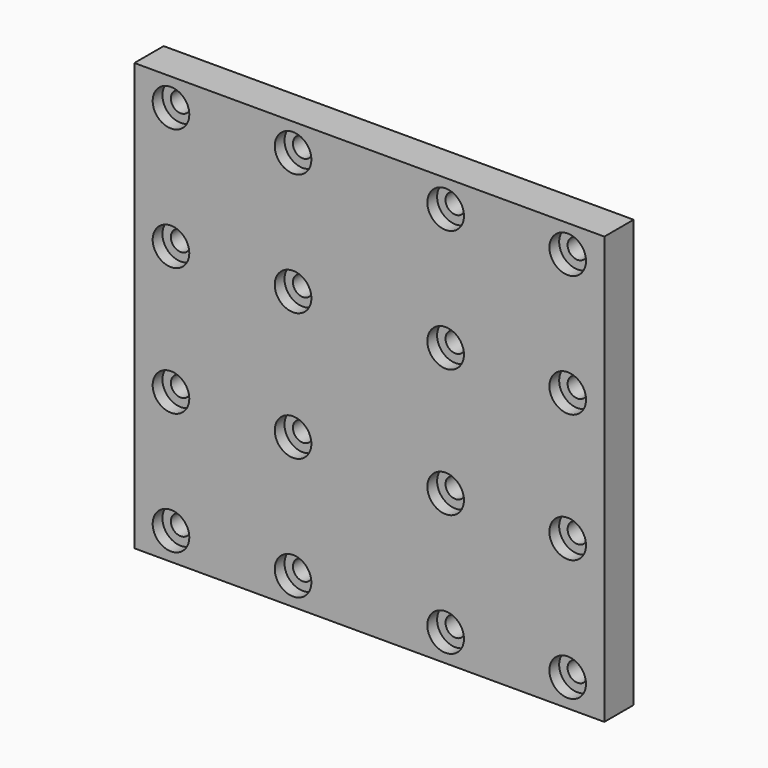
from build123d import *

# Parameters (mm, degrees)
F0_W     = 154
F0_H     = 140
F0_R     = 3.24
F1_DEPTH = 12
F2_R     = 6
F2_R_2   = 3.24
F3_DEPTH = 4


with BuildPart() as f1:
    # F0 (on Front) → F1 (new body)
    with BuildSketch(Plane.XZ):
        Rectangle(F0_W, F0_H)
        with Locations((-65, -61)):
            Circle(F0_R, mode=Mode.SUBTRACT)
        with Locations((-25, -61)):
            Circle(F0_R, mode=Mode.SUBTRACT)
        with Locations((-65, -21)):
            Circle(F0_R, mode=Mode.SUBTRACT)
        with Locations((-25, -21)):
            Circle(F0_R, mode=Mode.SUBTRACT)
        with Locations((25, -61)):
            Circle(F0_R, mode=Mode.SUBTRACT)
        with Locations((65, -61)):
            Circle(F0_R, mode=Mode.SUBTRACT)
        with Locations((25, -21)):
            Circle(F0_R, mode=Mode.SUBTRACT)
        with Locations((65, -21)):
            Circle(F0_R, mode=Mode.SUBTRACT)
        with Locations((-65, 21)):
            Circle(F0_R, mode=Mode.SUBTRACT)
        with Locations((-25, 21)):
            Circle(F0_R, mode=Mode.SUBTRACT)
        with Locations((-65, 61)):
            Circle(F0_R, mode=Mode.SUBTRACT)
        with Locations((-25, 61)):
            Circle(F0_R, mode=Mode.SUBTRACT)
        with Locations((25, 21)):
            Circle(F0_R, mode=Mode.SUBTRACT)
        with Locations((65, 21)):
            Circle(F0_R, mode=Mode.SUBTRACT)
        with Locations((25, 61)):
            Circle(F0_R, mode=Mode.SUBTRACT)
        with Locations((65, 61)):
            Circle(F0_R, mode=Mode.SUBTRACT)
    extrude(amount=F1_DEPTH)

    # F2 (on face) → F3 (cut)
    with BuildSketch(Plane.XZ.offset(12)):
        with Locations((-65, 61)):
            Circle(F2_R)
        with Locations((-65, 61)):
            Circle(F2_R_2, mode=Mode.SUBTRACT)
        with Locations((-25, 61)):
            Circle(F2_R)
        with Locations((-25, 61)):
            Circle(F2_R_2, mode=Mode.SUBTRACT)
        with Locations((25, 61)):
            Circle(F2_R)
        with Locations((25, 61)):
            Circle(F2_R_2, mode=Mode.SUBTRACT)
        with Locations((65, 61)):
            Circle(F2_R)
        with Locations((65, 61)):
            Circle(F2_R_2, mode=Mode.SUBTRACT)
        with Locations((65, 21)):
            Circle(F2_R)
        with Locations((65, 21)):
            Circle(F2_R_2, mode=Mode.SUBTRACT)
        with Locations((25, 21)):
            Circle(F2_R)
        with Locations((25, 21)):
            Circle(F2_R_2, mode=Mode.SUBTRACT)
        with Locations((-25, 21)):
            Circle(F2_R)
        with Locations((-25, 21)):
            Circle(F2_R_2, mode=Mode.SUBTRACT)
        with Locations((-65, 21)):
            Circle(F2_R)
        with Locations((-65, 21)):
            Circle(F2_R_2, mode=Mode.SUBTRACT)
        with Locations((-65, -21)):
            Circle(F2_R)
        with Locations((-65, -21)):
            Circle(F2_R_2, mode=Mode.SUBTRACT)
        with Locations((-25, -21)):
            Circle(F2_R)
        with Locations((-25, -21)):
            Circle(F2_R_2, mode=Mode.SUBTRACT)
        with Locations((25, -21)):
            Circle(F2_R)
        with Locations((25, -21)):
            Circle(F2_R_2, mode=Mode.SUBTRACT)
        with Locations((65, -21)):
            Circle(F2_R)
        with Locations((65, -21)):
            Circle(F2_R_2, mode=Mode.SUBTRACT)
        with Locations((65, -61)):
            Circle(F2_R)
        with Locations((65, -61)):
            Circle(F2_R_2, mode=Mode.SUBTRACT)
        with Locations((25, -61)):
            Circle(F2_R)
        with Locations((25, -61)):
            Circle(F2_R_2, mode=Mode.SUBTRACT)
        with Locations((-25, -61)):
            Circle(F2_R)
        with Locations((-25, -61)):
            Circle(F2_R_2, mode=Mode.SUBTRACT)
        with Locations((-65, -61)):
            Circle(F2_R)
        with Locations((-65, -61)):
            Circle(F2_R_2, mode=Mode.SUBTRACT)
    extrude(amount=-F3_DEPTH, mode=Mode.SUBTRACT)


solid = f1.part
